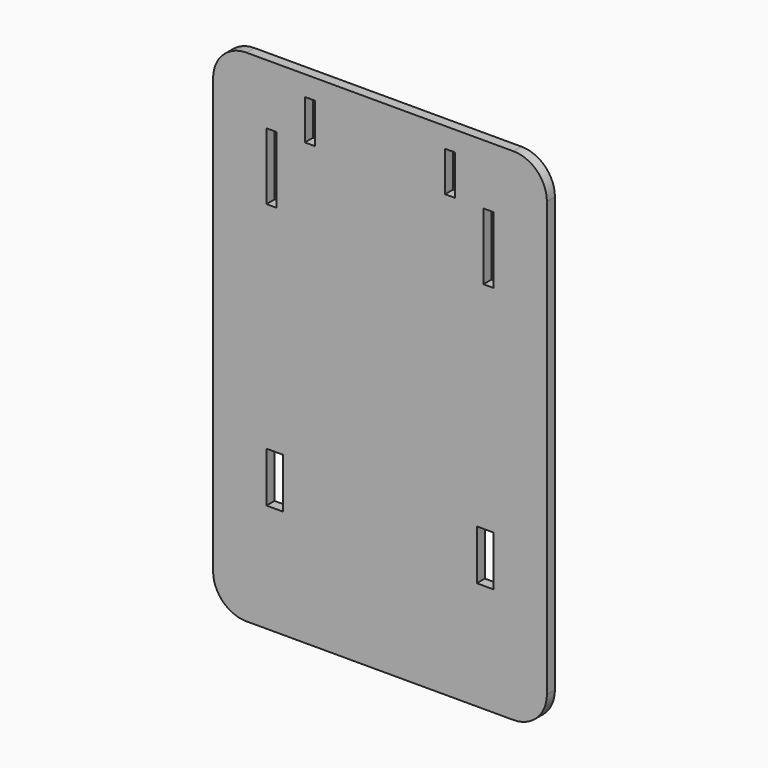
from build123d import *

# Parameters (mm, degrees)
F0_W     = 5
F0_H     = 15
F0_W_2   = 3
F0_H_2   = 20
F0_H_3   = 12
F1_DEPTH = 3


with BuildPart() as f1:
    # F0 (on Front) → F1 (new body)
    with BuildSketch(Plane.XZ):
        with BuildLine():
            ThreePointArc((50, 65), (47.071068, 72.071068), (40, 75))
            Line((40, 75), (-40, 75))
            ThreePointArc((-40, 75), (-47.071068, 72.071068), (-50, 65))
            Line((-50, 65), (-50, -65))
            ThreePointArc((-50, -65), (-47.071068, -72.071068), (-40, -75))
            Line((-40, -75), (40, -75))
            ThreePointArc((40, -75), (47.071068, -72.071068), (50, -65))
            Line((50, -65), (50, 65))
        make_face()
        with Locations((-31.5, -35)):
            Rectangle(F0_W, F0_H, mode=Mode.SUBTRACT)
        with Locations((31.5, -35)):
            Rectangle(F0_W, F0_H, mode=Mode.SUBTRACT)
        with Locations((-32.5, 47)):
            Rectangle(F0_W_2, F0_H_2, mode=Mode.SUBTRACT)
        with Locations((-21, 63)):
            Rectangle(F0_W_2, F0_H_3, mode=Mode.SUBTRACT)
        with Locations((21, 63)):
            Rectangle(F0_W_2, F0_H_3, mode=Mode.SUBTRACT)
        with Locations((32.5, 47)):
            Rectangle(F0_W_2, F0_H_2, mode=Mode.SUBTRACT)
    extrude(amount=F1_DEPTH)


solid = f1.part
